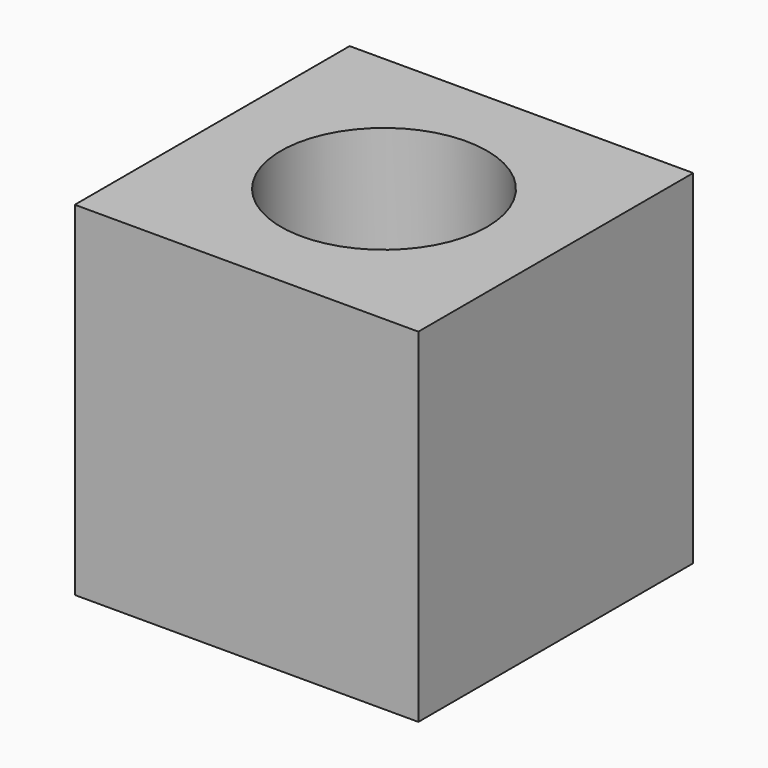
from build123d import *

# Parameters (mm, degrees)
CYLINDER_R     = 3
CYLINDER_DEPTH = 10
BOX_W          = 10
BOX_H          = 10
BOX_DEPTH      = 10


with BuildPart() as cylinder:
    # Cylinder → Cylinder (new body)
    with BuildSketch(Plane(origin=(5, 5, 5), x_dir=(1, 0, 0), z_dir=(0, 0, 1))):
        Circle(CYLINDER_R)
    extrude(amount=CYLINDER_DEPTH)


with BuildPart() as model_cut:
    # Box → Box (new body)
    with BuildSketch(Plane.XY):
        with Locations((5, 5)):
            Rectangle(BOX_W, BOX_H)
    extrude(amount=BOX_DEPTH)

    # Cut: cut Cylinder
    add(cylinder.part, mode=Mode.SUBTRACT)


with BuildPart() as model_cut_1:
    # Clone placement: moved
    add(model_cut.part.moved(Location((0, 0, -10))))


solid = model_cut_1.part
